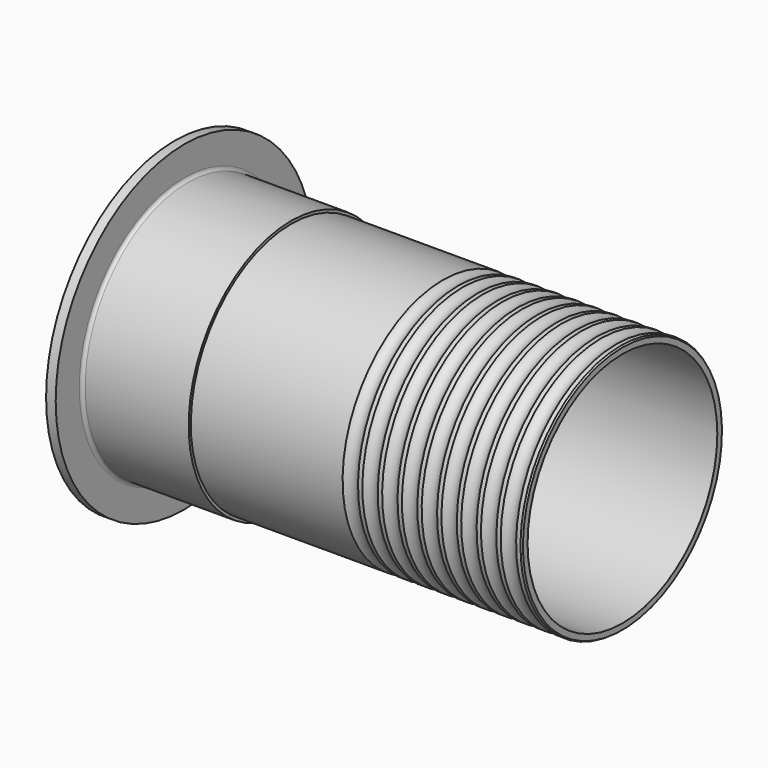
from build123d import *


with BuildPart() as f1:
    # F0 (on Front) → F1 (revolve)
    with BuildSketch(Plane.XZ):
        with BuildLine():
            ThreePointArc((-2.837839, -2.15), (-2.252052, -3.564214), (-0.837839, -4.15))
            Line((-0.837839, -4.15), (269, -4.15))
            Line((269, -4.15), (269, -0.61633))
            ThreePointArc((269, -0.61633), (268.484881, -0.332696), (268, 0))
            Line((268, 0), (265.367497, 0))
            ThreePointArc((265.367497, 0), (260.683748, -2.25), (256, 0))
            Line((256, 0), (253.367497, 0))
            ThreePointArc((253.367497, 0), (248.683748, -2.25), (244, 0))
            Line((244, 0), (241.367497, 0))
            ThreePointArc((241.367497, 0), (236.683748, -2.25), (232, 0))
            Line((232, 0), (229.367497, 0))
            ThreePointArc((229.367497, 0), (224.683748, -2.25), (220, 0))
            Line((220, 0), (217.367497, 0))
            ThreePointArc((217.367497, 0), (212.683748, -2.25), (208, 0))
            Line((208, 0), (205.367497, 0))
            ThreePointArc((205.367497, 0), (200.683748, -2.25), (196, 0))
            Line((196, 0), (193.367497, 0))
            ThreePointArc((193.367497, 0), (188.683748, -2.25), (184, 0))
            Line((184, 0), (181.367497, 0))
            ThreePointArc((181.367497, 0), (176.683748, -2.25), (172, 0))
            Line((172, 0), (169.367497, 0))
            ThreePointArc((169.367497, 0), (164.683748, -2.25), (160, 0))
            Line((160, 0), (67.840911, 0))
            Line((67.840911, 0), (67.840911, 1.65))
            Line((67.840911, 1.65), (5, 1.65))
            ThreePointArc((5, 1.65), (3.585786, 2.235786), (3, 3.65))
            Line((3, 3.65), (3, 21.51178))
            Line((3, 21.51178), (-2.837839, 21.51178))
            Line((-2.837839, 21.51178), (-2.837839, -2.15))
        make_face()
    revolve(axis=Axis((138.761062, 0, -76.15), (1, 0, 0)))


solid = f1.part
